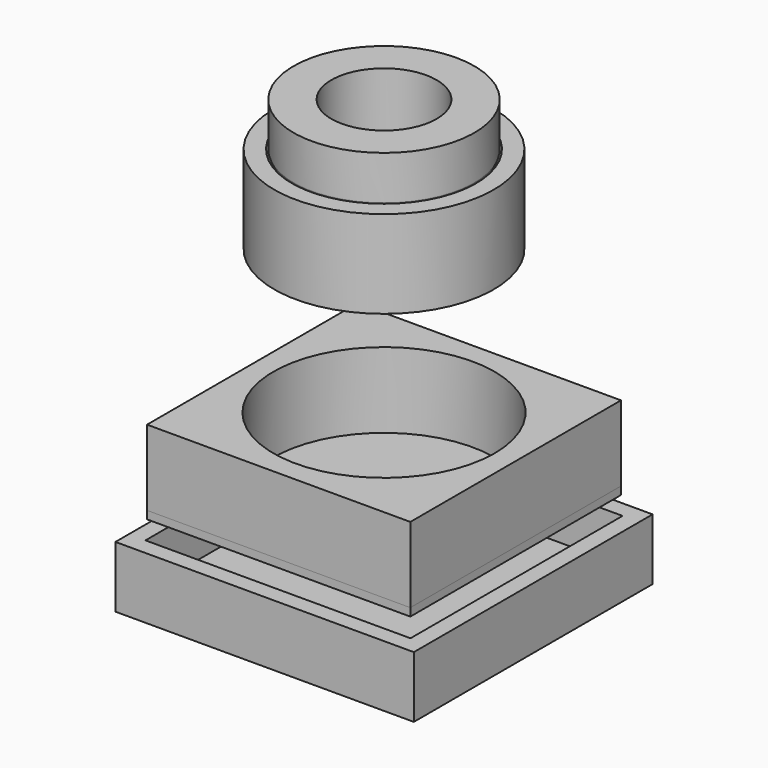
from build123d import *

# Parameters (mm, degrees)
F6_R      = 6
F7_DEPTH  = 15
F9_W      = 30
F9_H      = 30
F9_R      = 12.6
F10_DEPTH = 8.6
F11_DEPTH = 0.9
F12_W     = 1.5
F12_H     = 8
F13_DEPTH = 0.9
F15_W     = 34
F15_H     = 34
F15_W_2   = 30.2
F15_H_2   = 30.2
F16_DEPTH = 2
F17_DEPTH = 7


with BuildPart() as f5:
    # F4 (on Right) → F5 (revolve)
    with BuildSketch(Plane.YZ):
        Polygon((12.5, 10), (10.5, 10), (6, 0), (12.5, 0), align=None)
    revolve(axis=Axis((0, 0, 7.975027198), (0, 0, -1)))


with BuildPart() as f5b:
    # F4 (on Right) → F5, piece 2 (revolve)
    with BuildSketch(Plane.YZ):
        Polygon((0, 15), (0, 0), (5.8, 0), (10.3, 10), (10.3, 15), align=None)
    revolve(axis=Axis((0, 0, 7.975027198), (0, 0, -1)))

    # F6 (on face) → F7 (cut, through all)
    with BuildSketch(Plane.XY.offset(15)):
        Circle(F6_R)
    extrude(amount=-F7_DEPTH, mode=Mode.SUBTRACT)


with BuildPart() as f10:
    # F9 (on offset) → F10 (new body)
    with BuildSketch(Plane.XY.offset(-25)):
        Rectangle(F9_W, F9_H)
        Circle(F9_R, mode=Mode.SUBTRACT)
    extrude(amount=F10_DEPTH)


with BuildPart() as f11:
    # F9 (on offset) → F11 (new body)
    with BuildSketch(Plane.XY.offset(-25)):
        Rectangle(F9_W, F9_H)
        Circle(F9_R, mode=Mode.SUBTRACT)
        Circle(F9_R)
    extrude(amount=-F11_DEPTH)

    # F12 (on face) → F13 (cut, through all)
    with BuildSketch(Plane(origin=(0, 0, -25.9), x_dir=(1, 0, 0), z_dir=(0, 0, -1))):
        Rectangle(F12_W, F12_H)
    extrude(amount=-F13_DEPTH, mode=Mode.SUBTRACT)


with BuildPart() as f16:
    # F15 (on offset) → F16 (new body)
    with BuildSketch(Plane.XY.offset(-35)):
        Rectangle(F15_W, F15_H)
        Rectangle(F15_W_2, F15_H_2, mode=Mode.SUBTRACT)
        Rectangle(F15_W_2, F15_H_2)
    extrude(amount=F16_DEPTH)

    # F15 (on offset) → F17 (join)
    with BuildSketch(Plane.XY.offset(-35)):
        Rectangle(F15_W, F15_H)
        Rectangle(F15_W_2, F15_H_2, mode=Mode.SUBTRACT)
    extrude(amount=F17_DEPTH)


solid = Compound([f5.part, f5b.part, f10.part, f11.part, f16.part])
